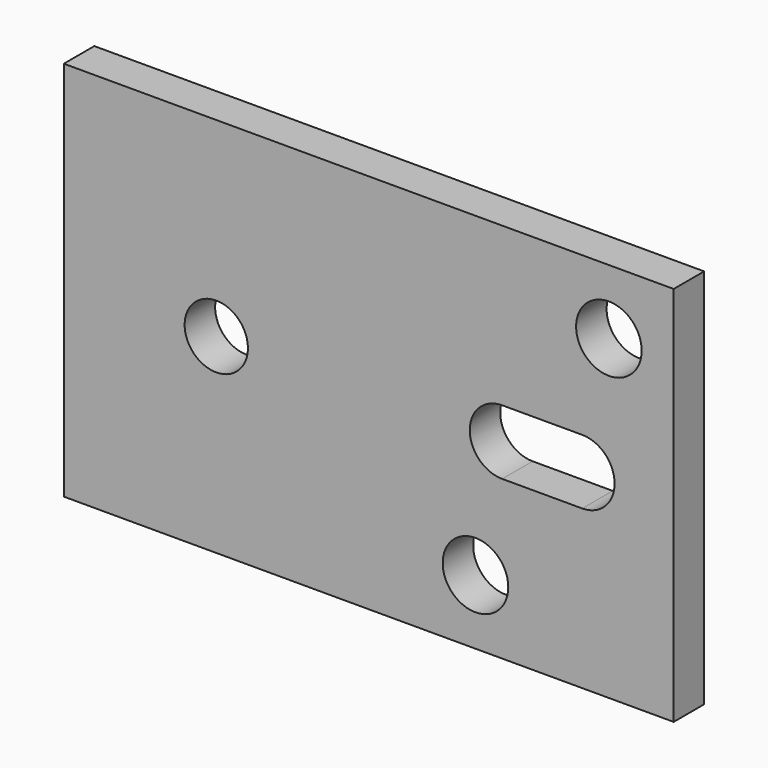
from build123d import *

# Parameters (mm, degrees)
F0_W     = 80
F0_H     = 50
F0_R     = 4.3
F0_R_2   = 4.15
F1_DEPTH = 5
F3_DEPTH = 25


with BuildPart() as f1:
    # F0 (on Front) → F1 (new body)
    with BuildSketch(Plane.XZ):
        Rectangle(F0_W, F0_H)
        with Locations((14, -16.5)):
            Circle(F0_R, mode=Mode.SUBTRACT)
        with Locations((-20, 0)):
            Circle(F0_R_2, mode=Mode.SUBTRACT)
        with Locations((31.5, 16.5)):
            Circle(F0_R, mode=Mode.SUBTRACT)
    extrude(amount=F1_DEPTH)

    # F2 (on face) → F3 (cut)
    with BuildSketch(Plane.XZ.offset(5)):
        with BuildLine():
            Line((17.5, -4.25), (28, -4.25))
            ThreePointArc((28, -4.25), (32.25, 0), (28, 4.25))
            Line((28, 4.25), (17.5, 4.25))
            ThreePointArc((17.5, 4.25), (13.25, 0), (17.5, -4.25))
        make_face()
    extrude(amount=-F3_DEPTH, mode=Mode.SUBTRACT)


solid = f1.part
